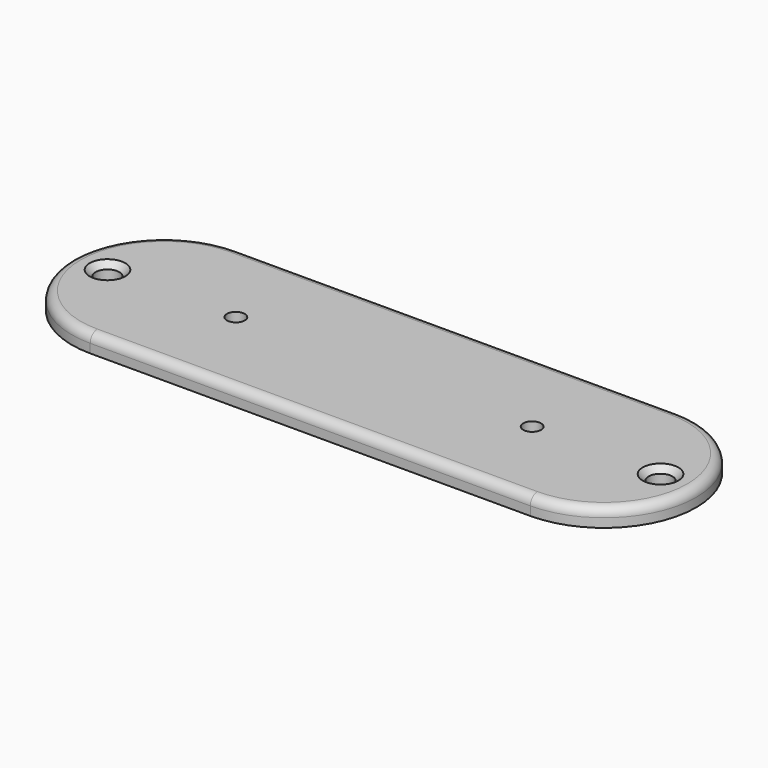
from build123d import *

# Parameters (mm, degrees)
F0_R     = 2
F0_R_2   = 1.5
F1_DEPTH = 3
F2_R     = 1.5
F3_SIZE  = 1


with BuildPart() as f1:
    # F0 (on Top) → F1 (new body)
    with BuildSketch(Plane.XY):
        with BuildLine():
            Line((37, 15.5), (-37, 15.5))
            ThreePointArc((-37, 15.5), (-52.5, 0), (-37, -15.5))
            Line((-37, -15.5), (37, -15.5))
            ThreePointArc((37, -15.5), (52.5, 0), (37, 15.5))
        make_face()
        with Locations((-46.5, 0)):
            Circle(F0_R, mode=Mode.SUBTRACT)
        with Locations((-24.91, 0)):
            Circle(F0_R_2, mode=Mode.SUBTRACT)
        with Locations((24.91, 0)):
            Circle(F0_R_2, mode=Mode.SUBTRACT)
        with Locations((46.5, 0)):
            Circle(F0_R, mode=Mode.SUBTRACT)
    extrude(amount=F1_DEPTH)

    # F2
    f2_edges = [f1.edges().sort_by_distance(p)[0] for p in [
        (0, 15.5, 3),
    ]]
    fillet(f2_edges, radius=F2_R)

    # F3
    f3_edges = [f1.edges().sort_by_distance(p)[0] for p in [
        (-48.5, 0, 3),
        (44.5, 0, 3),
    ]]
    chamfer(f3_edges, length=F3_SIZE)


solid = f1.part
